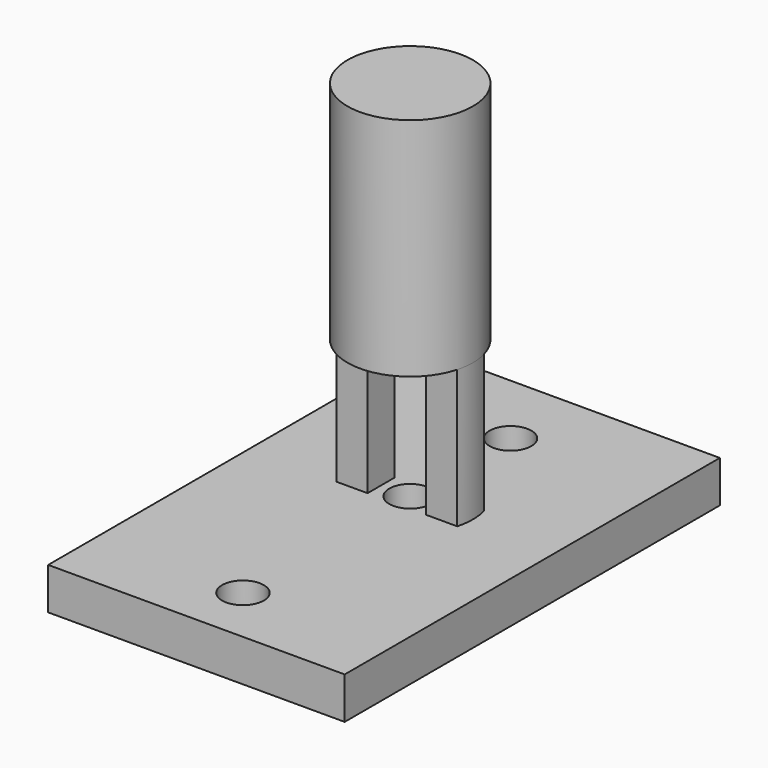
from build123d import *

# Parameters (mm, degrees)
SKETCH_R     = 7.5
PAD_DEPTH    = 9
SKETCH001_R  = 7.5
PAD001_DEPTH = 2
SKETCH002_R  = 7.5
PAD002_DEPTH = 9
SKETCH003_R  = 7.5
PAD003_DEPTH = 1.5
SKETCH004_R  = 7.5
PAD004_DEPTH = 5.5
PAD005_DEPTH = 21.5
SKETCH006_R  = 12.5
PAD006_DEPTH = 5
SKETCH007_W  = 35.462824
SKETCH007_H  = 56.081524
SKETCH007_R  = 2.5
PAD007_DEPTH = 5


with BuildPart() as part:
    # Sketch → Pad (new body)
    with BuildSketch(Plane.XY):
        Circle(SKETCH_R)
    extrude(amount=PAD_DEPTH)

    # Sketch001 (on Face3 of Pad) → Pad001 (join)
    with BuildSketch(Plane.XY.offset(9)):
        Circle(SKETCH001_R)
    extrude(amount=PAD001_DEPTH)

    # Sketch002 (on Face4 of Pad001) → Pad002 (join)
    with BuildSketch(Plane.XY.offset(11)):
        Circle(SKETCH002_R)
    extrude(amount=PAD002_DEPTH)

    # Sketch003 (on Face5 of Pad002) → Pad003 (join)
    with BuildSketch(Plane.XY.offset(20)):
        Circle(SKETCH003_R)
    extrude(amount=PAD003_DEPTH)

    # Sketch004 (on Face2 of Pad003) → Pad004 (join)
    with BuildSketch(Plane(origin=(0, 0, 0), x_dir=(1, 0, 0), z_dir=(0, 0, -1))):
        Circle(SKETCH004_R)
    extrude(amount=PAD004_DEPTH)

    # Sketch005 (on Face4 of Pad004) → Pad005 (join)
    with BuildSketch(Plane(origin=(0, 0, -5.5), x_dir=(1, 0, 0), z_dir=(0, 0, -1))):
        with BuildLine():
            Line((3.5, 2), (3.5, -2))
            Line((3.5, -2), (7.228416, -2))
            ThreePointArc((7.228416, -2), (7.5, 0), (7.228416, 2))
            Line((3.5, 2), (7.228416, 2))
        make_face()
        with BuildLine():
            Line((-3.5, 2), (-3.5, -2))
            Line((-3.5, -2), (-7.228416, -2))
            ThreePointArc((-7.228416, 2), (-7.5, 0), (-7.228416, -2))
            Line((-3.5, 2), (-7.228416, 2))
        make_face()
    extrude(amount=PAD005_DEPTH)

    # Sketch006 (on Face15 of Pad005) → Pad006 (join)
    with BuildSketch(Plane(origin=(0, 0, -27), x_dir=(1, 0, 0), z_dir=(0, 0, -1))):
        Circle(SKETCH006_R)
        with BuildLine():
            ThreePointArc((10.816654, 2), (0, 11), (-10.816654, 2))
            Line((-3.5, 2), (-10.816654, 2))
            Line((-3.5, -2), (-3.5, 2))
            Line((-10.816654, -2), (-3.5, -2))
            ThreePointArc((-10.816654, -2), (0, -11), (10.816654, -2))
            Line((10.816654, -2), (3.5, -2))
            Line((3.5, -2), (3.5, 2))
            Line((3.5, 2), (10.816654, 2))
        make_face(mode=Mode.SUBTRACT)
    extrude(amount=-PAD006_DEPTH)

    # Sketch007 (on Face31 of Pad006) → Pad007 (join)
    with BuildSketch(Plane(origin=(0, 0, -27), x_dir=(1, 0, 0), z_dir=(0, 0, -1))):
        with Locations((0, 3.914595)):
            Rectangle(SKETCH007_W, SKETCH007_H)
        with Locations((0, 25)):
            Circle(SKETCH007_R, mode=Mode.SUBTRACT)
        with Locations((0, -15)):
            Circle(SKETCH007_R, mode=Mode.SUBTRACT)
        Circle(SKETCH007_R, mode=Mode.SUBTRACT)
    extrude(amount=-PAD007_DEPTH)


solid = part.part
